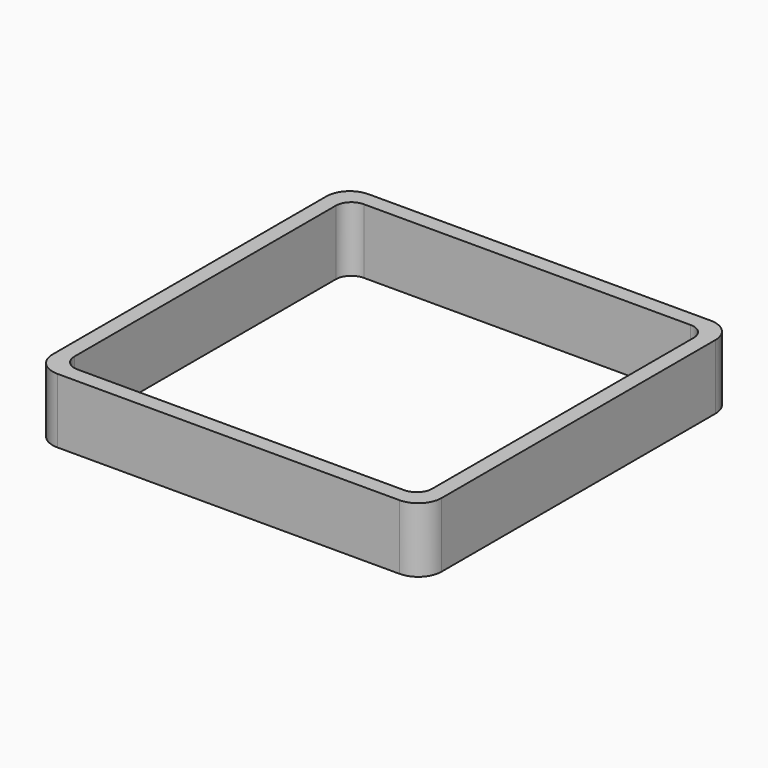
from build123d import *

# Parameters (mm, degrees)
EXTRUDE_DEPTH = 50


with BuildPart() as part:
    # Sketch → Extrude (new body)
    with BuildSketch(Plane.XY):
        with BuildLine():
            Line((-132, 150), (132, 150))
            ThreePointArc((150, 132), (144.727922, 144.727922), (132, 150))
            Line((150, 132), (150, -132))
            ThreePointArc((132, -150), (144.727922, -144.727922), (150, -132))
            Line((132, -150), (-132, -150))
            ThreePointArc((-150, -132), (-144.727922, -144.727922), (-132, -150))
            Line((-150, -132), (-150, 132))
            ThreePointArc((-132, 150), (-144.727922, 144.727922), (-150, 132))
        make_face()
        with BuildLine():
            Line((-126, 138), (126, 138))
            ThreePointArc((138, 126), (134.485281, 134.485281), (126, 138))
            Line((138, 126), (138, -126))
            ThreePointArc((126, -138), (134.485281, -134.485281), (138, -126))
            Line((126, -138), (-126, -138))
            ThreePointArc((-138, -126), (-134.485281, -134.485281), (-126, -138))
            Line((-138, -126), (-138, 126))
            ThreePointArc((-126, 138), (-134.485281, 134.485281), (-138, 126))
        make_face(mode=Mode.SUBTRACT)
    extrude(amount=EXTRUDE_DEPTH)


solid = part.part
